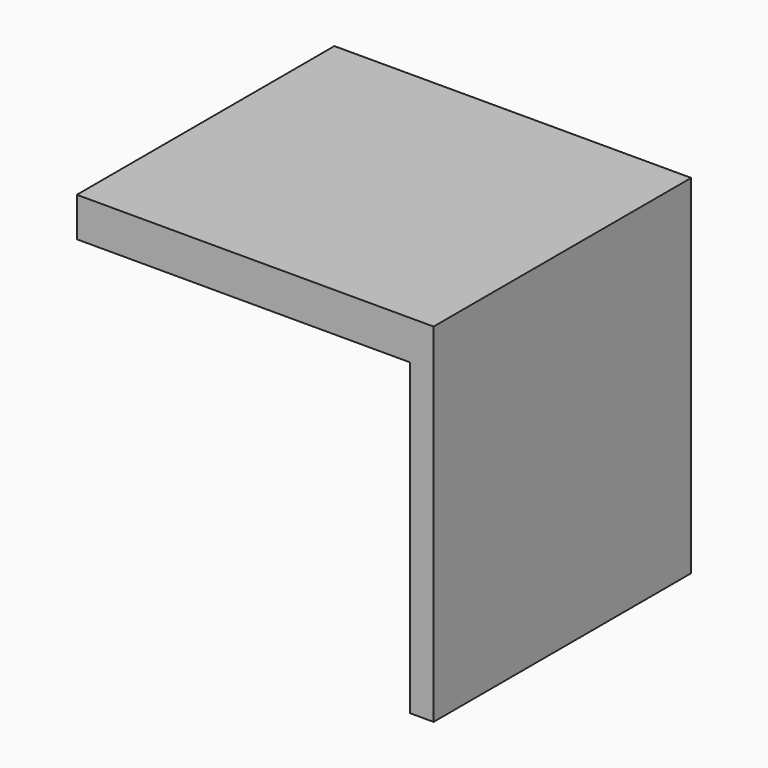
from build123d import *

# Parameters (mm, degrees)
F1_DEPTH = 148


with BuildPart() as f1:
    # F0 (on Front) → F1 (new body)
    with BuildSketch(Plane.XZ):
        Polygon((145.814923, -11.975734), (145.814923, 148.024266), (135.014689, 70.738161), (135.014689, -11.975734), align=None)
        Polygon((-18.185077, 148.024266), (-18.185077, 130.001514), (135.014689, 130.001514), (135.014689, 70.738161), (145.814923, 148.024266), align=None)
    extrude(amount=-F1_DEPTH)


solid = f1.part
